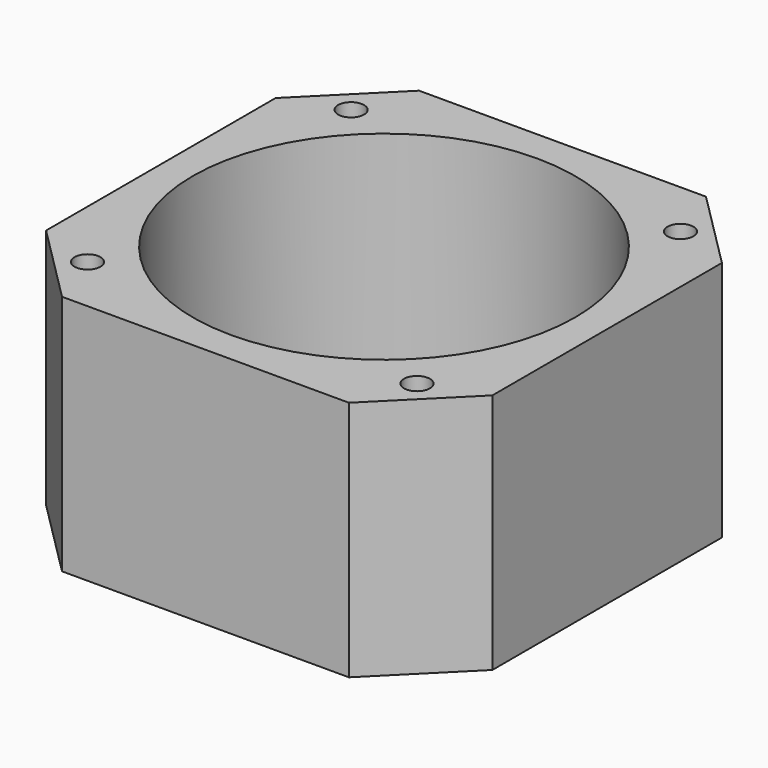
from build123d import *

# Parameters (mm, degrees)
SKETCH117_W     = 42
SKETCH117_H     = 42
PAD002_DEPTH    = 22.75
CHAMFER004_SIZE = 7.5
SKETCH005_R     = 1.22
POCKET009_DEPTH = 22.751
SKETCH012_R     = 18
POCKET005_DEPTH = 22.751


with BuildPart() as part:
    # Sketch117 → Pad002 (new body)
    with BuildSketch(Plane.XY):
        Rectangle(SKETCH117_W, SKETCH117_H)
    extrude(amount=PAD002_DEPTH)

    # Chamfer004
    chamfer004_edges = [part.edges().sort_by_distance(p)[0] for p in [
        (-21, -21, 11.375),
        (-21, 21, 11.375),
        (21, -21, 11.375),
        (21, 21, 11.375),
    ]]
    chamfer(chamfer004_edges, length=CHAMFER004_SIZE)

    # Sketch005 (on Face2 of Chamfer004) → Pocket009 (cut, through all)
    with BuildSketch(Plane(origin=(0, 0, 0), x_dir=(1, 0, 0), z_dir=(0, 0, -1))):
        with Locations((-15.5, 15.5)):
            Circle(SKETCH005_R)
        with Locations((15.5, 15.5)):
            Circle(SKETCH005_R)
        with Locations((15.5, -15.5)):
            Circle(SKETCH005_R)
        with Locations((-15.5, -15.5)):
            Circle(SKETCH005_R)
    extrude(amount=-POCKET009_DEPTH, mode=Mode.SUBTRACT)

    # Sketch012 (on Face5 of Pocket009) → Pocket005 (cut, through all)
    with BuildSketch(Plane.XY.offset(22.75)):
        Circle(SKETCH012_R)
    extrude(amount=-POCKET005_DEPTH, mode=Mode.SUBTRACT)


with BuildPart() as part_1:
    # Body018 placement: moved
    add(part.part.moved(Location((0, 0, 9.6))))


solid = part_1.part
